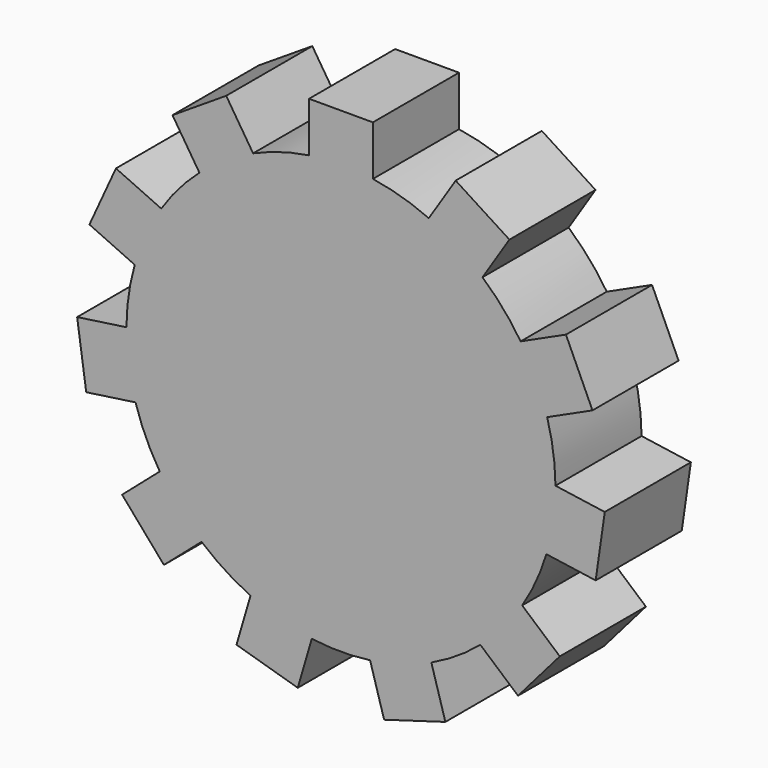
from build123d import *

# Parameters (mm, degrees)
F1_DEPTH = 43


with BuildPart() as f1:
    # F0 (on Front) → F1 (new body)
    with BuildSketch(Plane.XZ):
        with BuildLine():
            Line((-146.887511, 127.629058), (-136.130685, 110.89111))
            ThreePointArc((-136.130685, 110.89111), (-144.351103, 102.616371), (-151.371731, 93.302008))
            Line((-151.371731, 93.302008), (-169.470167, 101.567286))
            Line((-169.470167, 101.567286), (-180.066761, 78.363986))
            Line((-180.066761, 78.363986), (-161.968325, 70.098707))
            ThreePointArc((-161.968325, 70.098707), (-164.410119, 58.69326), (-165.280523, 47.061881))
            Line((-165.280523, 47.061881), (-184.974443, 44.230323))
            Line((-184.974443, 44.230323), (-181.344214, 18.981513))
            Line((-181.344214, 18.981513), (-161.650294, 21.813071))
            ThreePointArc((-161.650294, 21.813071), (-157.538211, 10.898065), (-151.982043, 0.642551))
            Line((-151.982043, 0.642551), (-167.018767, -12.386845))
            Line((-167.018767, -12.386845), (-150.314287, -31.664845))
            Line((-150.314287, -31.664845), (-135.277563, -18.63545))
            ThreePointArc((-135.277563, -18.63545), (-125.917161, -25.594578), (-115.698465, -31.218174))
            Line((-115.698465, -31.218174), (-121.30394, -50.308666))
            Line((-121.30394, -50.308666), (-96.828763, -57.495228))
            Line((-96.828763, -57.495228), (-91.223289, -38.404736))
            ThreePointArc((-91.223289, -38.404736), (-79.586429, -39.198512), (-67.949569, -38.404738))
            Line((-67.949569, -38.404738), (-62.344095, -57.49523))
            Line((-62.344095, -57.49523), (-37.868917, -50.308671))
            Line((-37.868917, -50.308671), (-43.474391, -31.218179))
            ThreePointArc((-43.474391, -31.218179), (-33.255695, -25.594585), (-23.895292, -18.635458))
            Line((-23.895292, -18.635458), (-8.858568, -31.664854))
            Line((-8.858568, -31.664854), (7.845915, -12.386856))
            Line((7.845915, -12.386856), (-7.190809, 0.64254))
            ThreePointArc((-7.190809, 0.64254), (-1.634639, 10.898053), (2.477445, 21.813059))
            Line((2.477445, 21.813059), (22.171366, 18.9815))
            Line((22.171366, 18.9815), (25.801598, 44.23031))
            Line((25.801598, 44.23031), (6.107678, 47.061868))
            ThreePointArc((6.107678, 47.061868), (5.237276, 58.693247), (2.795484, 70.098695))
            Line((2.795484, 70.098695), (20.89392, 78.363974))
            Line((20.89392, 78.363974), (10.297329, 101.567275))
            Line((10.297329, 101.567275), (-7.801107, 93.301997))
            ThreePointArc((-7.801107, 93.301997), (-14.821734, 102.616361), (-23.04215, 110.891101))
            Line((-23.04215, 110.891101), (-12.285324, 127.62905))
            Line((-12.285324, 127.62905), (-33.744396, 141.41996))
            Line((-33.744396, 141.41996), (-44.501222, 124.682011))
            ThreePointArc((-44.501222, 124.682011), (-55.443074, 128.722116), (-66.832192, 131.238978))
            Line((-66.832192, 131.238978), (-66.832192, 151.135415))
            Line((-66.832192, 151.135415), (-92.34064, 151.135417))
            Line((-92.34064, 151.135417), (-92.34064, 131.23898))
            ThreePointArc((-92.34064, 131.23898), (-103.729758, 128.72212), (-114.671611, 124.682017))
            Line((-114.671611, 124.682017), (-125.428437, 141.419965))
            Line((-125.428437, 141.419965), (-146.887511, 127.629058))
        make_face()
    extrude(amount=F1_DEPTH)


solid = f1.part
